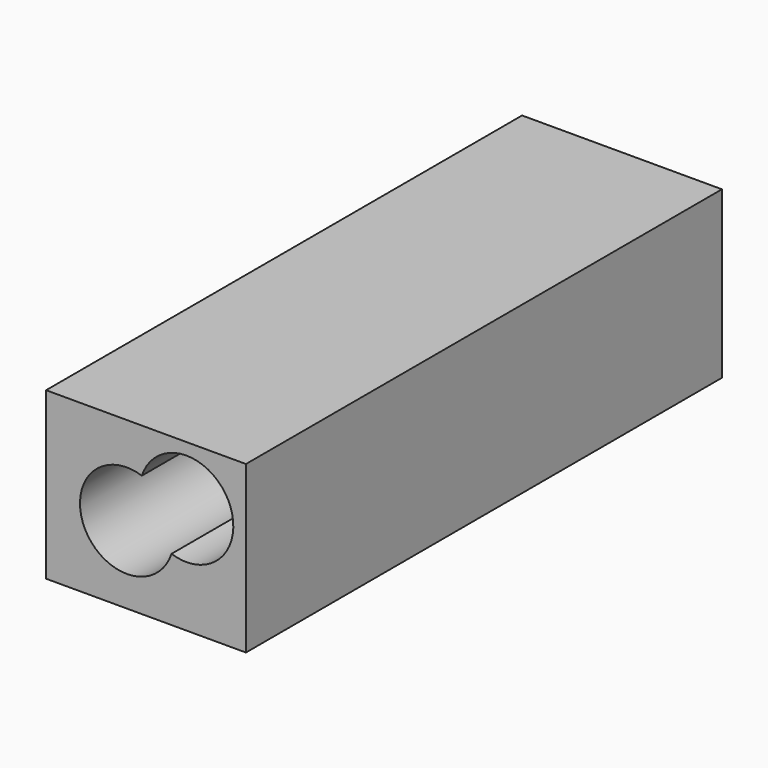
from build123d import *

# Parameters (mm, degrees)
F0_W     = 54.104183
F0_H     = 44.93398
F1_DEPTH = 161.07251
F4_D     = 25.4
F5_D     = 25.4


with BuildPart() as f1:
    # F0 (on Front) → F1 (new body)
    with BuildSketch(Plane.XZ):
        with Locations((-42.297548, 38.514842)):
            Rectangle(F0_W, F0_H)
    extrude(amount=F1_DEPTH)

    # F4 (through all)
    with Locations(Plane.XZ.offset(161.07251)):
        with Locations((-47.465287, 36.99689)):
            Hole(F4_D / 2)

    # F5 (through all)
    with Locations(Plane.XZ.offset(161.07251)):
        with Locations((-31.359639, 45.062546)):
            Hole(F5_D / 2)


solid = f1.part
